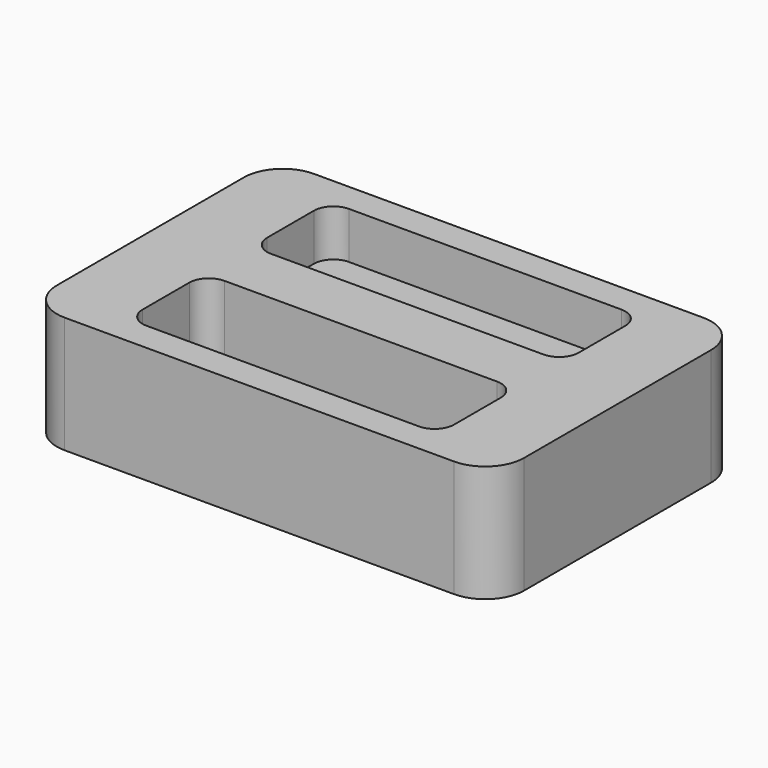
from build123d import *

# Parameters (mm, degrees)
PAD_DEPTH       = 30
POCKET_DEPTH    = 12
POCKET001_DEPTH = 20


with BuildPart() as part:
    # Sketch001 → Pad (new body)
    with BuildSketch(Plane.XY):
        with BuildLine():
            Line((-60, 30), (-60, -30))
            ThreePointArc((-60, -30), (-57.071068, -37.071068), (-50, -40))
            Line((-50, -40), (50, -40))
            ThreePointArc((50, -40), (57.071068, -37.071068), (60, -30))
            Line((60, -30), (60, 30))
            ThreePointArc((60, 30), (57.071068, 37.071068), (50, 40))
            Line((50, 40), (-50, 40))
            ThreePointArc((-50, 40), (-57.071068, 37.071068), (-60, 30))
        make_face()
    extrude(amount=PAD_DEPTH)

    # Binder → Pocket (cut)
    with BuildSketch(Plane(origin=(0, 20, 30), x_dir=(0, 1, 0), z_dir=(0, 0, 1))):
        with BuildLine():
            Line((7.5, 40), (-7.5, 40))
            ThreePointArc((-7.5, 40), (-11.035534, 38.535534), (-12.5, 35))
            Line((-12.5, 35), (-12.5, -35))
            ThreePointArc((-12.5, -35), (-11.035534, -38.535534), (-7.5, -40))
            Line((-7.5, -40), (7.5, -40))
            ThreePointArc((7.5, -40), (11.035534, -38.535534), (12.5, -35))
            Line((12.5, -35), (12.5, 35))
            ThreePointArc((12.5, 35), (11.035534, 38.535534), (7.5, 40))
        make_face()
    extrude(amount=-POCKET_DEPTH, mode=Mode.SUBTRACT)

    # Binder001 → Pocket001 (cut)
    with BuildSketch(Plane(origin=(0, -20, 30), x_dir=(0, 1, 0), z_dir=(0, 0, 1))):
        with BuildLine():
            Line((7.5, 40), (-7.5, 40))
            ThreePointArc((-7.5, 40), (-11.035534, 38.535534), (-12.5, 35))
            Line((-12.5, 35), (-12.5, -35))
            ThreePointArc((-12.5, -35), (-11.035534, -38.535534), (-7.5, -40))
            Line((-7.5, -40), (7.5, -40))
            ThreePointArc((7.5, -40), (11.035534, -38.535534), (12.5, -35))
            Line((12.5, -35), (12.5, 35))
            ThreePointArc((12.5, 35), (11.035534, 38.535534), (7.5, 40))
        make_face()
    extrude(amount=-POCKET001_DEPTH, mode=Mode.SUBTRACT)


solid = part.part
